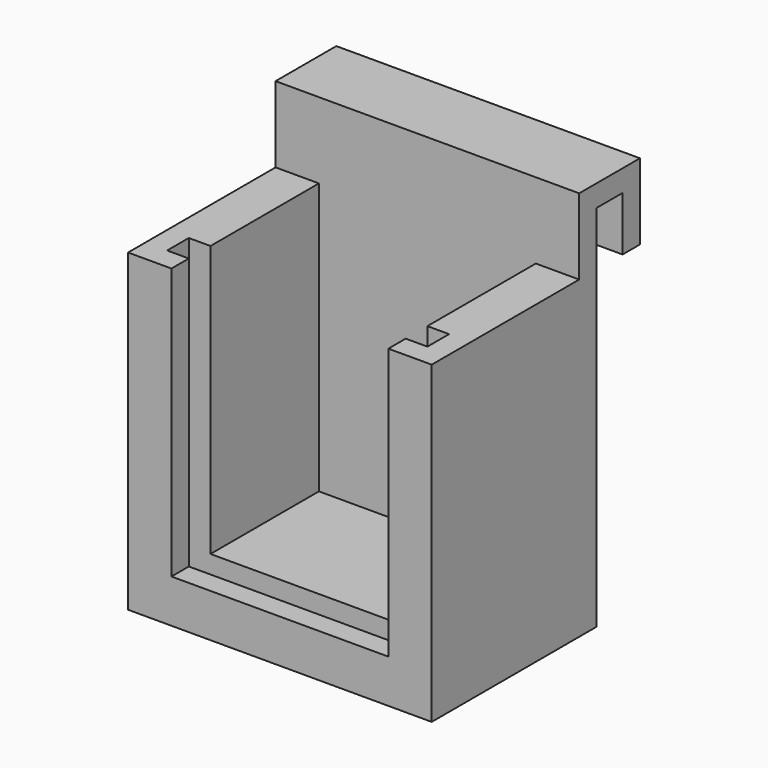
from build123d import *

# Parameters (mm, degrees)
F0_W      = 28
F0_H      = 19
F1_DEPTH  = 4
F2_W      = 20
F2_H      = 2
F3_DEPTH  = 25
F4_W      = 24
F4_H      = 2.5
F5_DEPTH  = 2
F6_W      = 2.5
F6_H      = 2
F6_H_2    = 25
F7_DEPTH  = 2
F8_W      = 2.5
F8_H      = 2
F8_H_2    = 25
F9_DEPTH  = 2
F10_W     = 28
F10_H     = 2
F11_DEPTH = 7
F12_W     = 28
F12_H     = 2
F13_DEPTH = 5
F14_W     = 28
F14_H     = 2
F15_DEPTH = 5


with BuildPart() as f1:
    # F0 (on Top) → F1 (new body)
    with BuildSketch(Plane.XY):
        with Locations((14, 9.5)):
            Rectangle(F0_W, F0_H)
    extrude(amount=F1_DEPTH)

    # F2 (on face) → F3 (join)
    with BuildSketch(Plane.XY.offset(4)):
        Polygon((0, 19), (0, 0), (4, 0), (4, 17), (4, 19), align=None)
        with Locations((14, 18)):
            Rectangle(F2_W, F2_H)
        Polygon((24, 19), (24, 17), (24, 0), (28, 0), (28, 19), align=None)
    extrude(amount=F3_DEPTH)

    # F4 (on face) → F5 (cut)
    with BuildSketch(Plane.XY.offset(4)):
        with Locations((14, 3.25)):
            Rectangle(F4_W, F4_H)
    extrude(amount=-F5_DEPTH, mode=Mode.SUBTRACT)

    # F6 (on face) → F7 (cut)
    with BuildSketch(Plane(origin=(24, 0, 0), x_dir=(0, -1, 0), z_dir=(-1, 0, 0))):
        with Locations((-3.25, 3)):
            Rectangle(F6_W, F6_H)
        with Locations((-3.25, 16.5)):
            Rectangle(F6_W, F6_H_2)
    extrude(amount=-F7_DEPTH, mode=Mode.SUBTRACT)

    # F8 (on face) → F9 (cut)
    with BuildSketch(Plane.YZ.offset(4)):
        with Locations((3.25, 3)):
            Rectangle(F8_W, F8_H)
        with Locations((3.25, 16.5)):
            Rectangle(F8_W, F8_H_2)
    extrude(amount=-F9_DEPTH, mode=Mode.SUBTRACT)

    # F10 (on face) → F11 (join)
    with BuildSketch(Plane.XY.offset(29)):
        with Locations((14, 18)):
            Rectangle(F10_W, F10_H)
    extrude(amount=F11_DEPTH)

    # F12 (on face) → F13 (join)
    with BuildSketch(Plane(origin=(0, 19, 0), x_dir=(-1, 0, 0), z_dir=(0, 1, 0))):
        with Locations((-14, 35)):
            Rectangle(F12_W, F12_H)
    extrude(amount=F13_DEPTH)

    # F14 (on face) → F15 (join)
    with BuildSketch(Plane(origin=(0, 0, 34), x_dir=(1, 0, 0), z_dir=(0, 0, -1))):
        with Locations((14, -23)):
            Rectangle(F14_W, F14_H)
    extrude(amount=F15_DEPTH)


solid = f1.part
